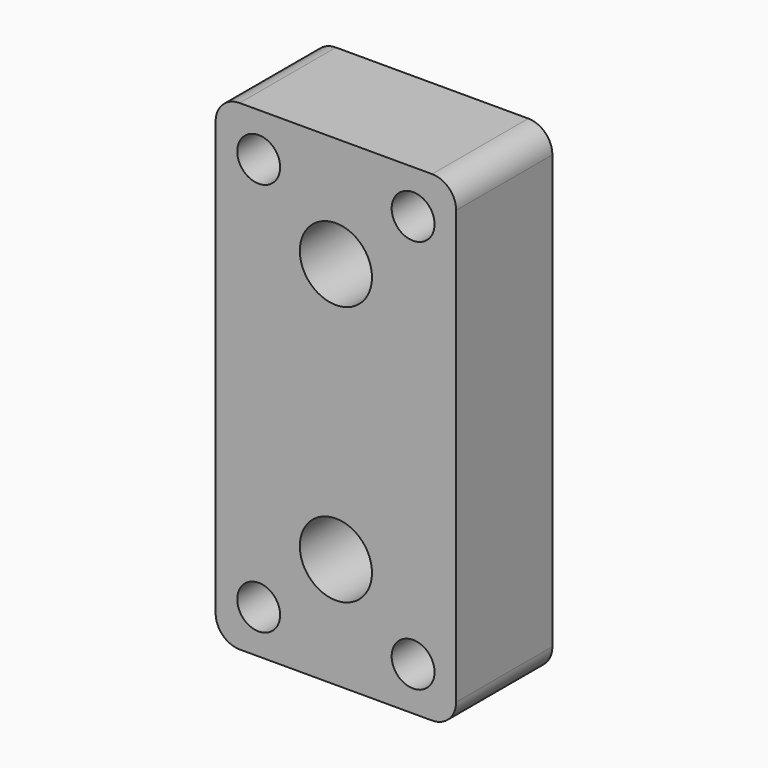
from build123d import *

# Parameters (mm, degrees)
F0_W     = 50.8
F0_H     = 101.6
F0_R     = 7.62
F1_DEPTH = 12.7
F2_R     = 5.08
F3_R     = 4.529312
F4_DEPTH = 25.4


with BuildPart() as f1:
    # F0 (on Front) → F1 (new body, symmetric)
    with BuildSketch(Plane.XZ):
        Rectangle(F0_W, F0_H)
        with Locations((0, -27.454738)):
            Circle(F0_R, mode=Mode.SUBTRACT)
        with Locations((0, 27.454738)):
            Circle(F0_R, mode=Mode.SUBTRACT)
    extrude(amount=F1_DEPTH, both=True)

    # F2
    f2_edges = [f1.edges().sort_by_distance(p)[0] for p in [
        (25.4, 0, 50.8),
        (-25.4, 0, 50.8),
        (-25.4, 0, -50.8),
        (25.4, 0, -50.8),
    ]]
    fillet(f2_edges, radius=F2_R)

    # F3 (on face) → F4 (cut, through all)
    with BuildSketch(Plane.XZ.offset(12.7)):
        with Locations((-16.305836, 41.625459)):
            Circle(F3_R)
        with Locations((16.305836, 41.625459)):
            Circle(F3_R)
        with Locations((-16.305836, -41.625459)):
            Circle(F3_R)
        with Locations((16.305836, -41.625459)):
            Circle(F3_R)
    extrude(amount=-F4_DEPTH, mode=Mode.SUBTRACT)


solid = f1.part
